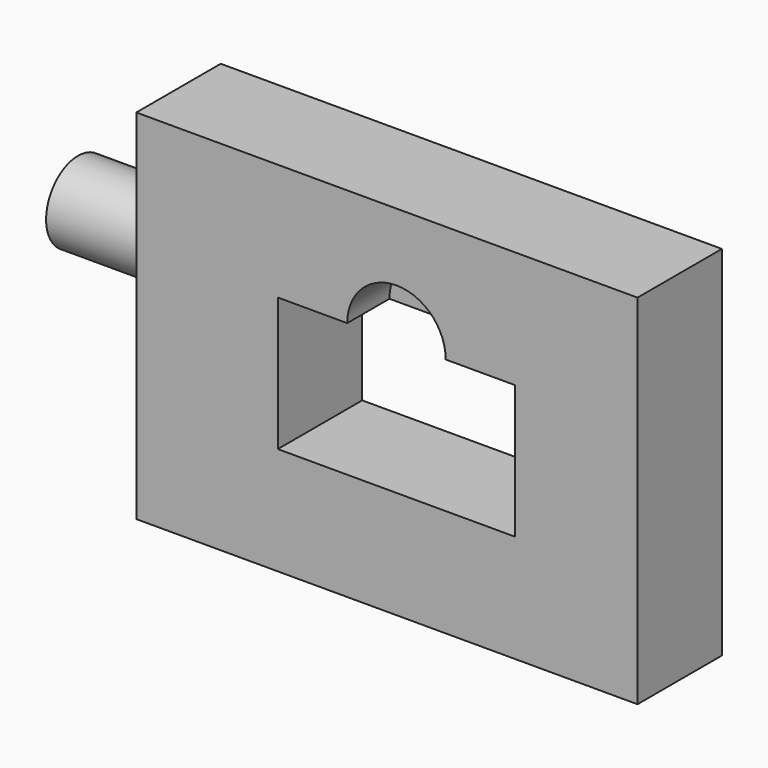
from build123d import *

# Parameters (mm, degrees)
F0_W     = 95
F0_H     = 67.8552658787
F0_W_2   = 44.9852889642
F0_H_2   = 25.2932771593
F1_DEPTH = 20
F2_R     = 7.5681331321
F3_DEPTH = 20
F5_DEPTH = 10


with BuildPart() as f1:
    # F0 (on Front) → F1 (new body)
    with BuildSketch(Plane.XZ):
        with Locations((-39.7814000025, 0.315669924)):
            Rectangle(F0_W, F0_H)
        with Locations((-37.9652246557, -0.5571056452)):
            Rectangle(F0_W_2, F0_H_2, mode=Mode.SUBTRACT)
    extrude(amount=F1_DEPTH)

    # F2 (on face) → F3 (join)
    with BuildSketch(Plane(origin=(-87.2814000025, 0, 0), x_dir=(0, -1, 0), z_dir=(-1, 0, 0))):
        with Locations((8.808799088, 8.3959847689)):
            Circle(F2_R)
    extrude(amount=F3_DEPTH)

    # F4 (on face) → F5 (cut)
    with BuildSketch(Plane.XZ.offset(20)):
        with BuildLine():
            Line((-47.3015092245, 12.0895329345), (-28.628940087, 12.0895329345))
            ThreePointArc((-28.628940087, 12.0895329345), (-37.9652246557, 21.4258175032), (-47.3015092245, 12.0895329345))
        make_face()
    extrude(amount=-F5_DEPTH, mode=Mode.SUBTRACT)


solid = f1.part
